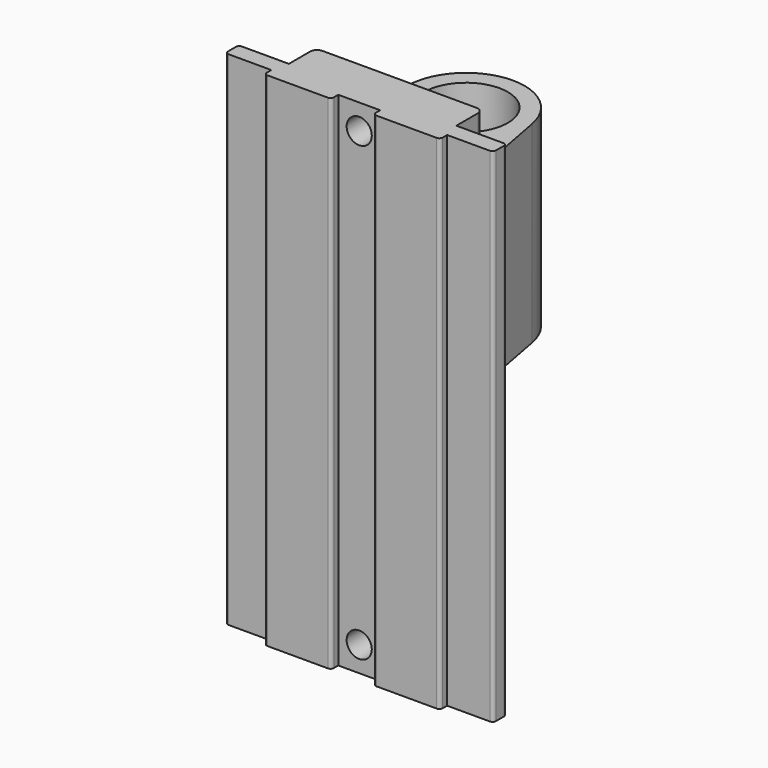
from build123d import *

# Parameters (mm, degrees)
F1_DEPTH = 190.5
F4_DEPTH = 73.025
F6_D     = 9.525
F7_D     = 9.525


with BuildPart() as f1:
    # F0 (on Top) → F1 (new body)
    with BuildSketch(Plane.XY):
        with BuildLine():
            Line((-7.9375, 3.373814), (0, 3.373814))
            Line((0, 3.373814), (0, 9.723814))
            Line((0, 9.723814), (-31.75, 9.723814))
            Line((-31.75, 9.723814), (-49.53, 9.723814))
            ThreePointArc((-49.53, 9.723814), (-50.428026, 9.35184), (-50.8, 8.453814))
            Line((-50.8, 8.453814), (-50.8, 4.643814))
            ThreePointArc((-50.8, 4.643814), (-50.428026, 3.745788), (-49.53, 3.373814))
            Line((-49.53, 3.373814), (-33.3375, 3.373814))
            Line((-33.3375, 3.373814), (-7.9375, 3.373814))
        make_face()
        with BuildLine():
            Line((0, 9.723814), (0, 3.373814))
            Line((0, 3.373814), (7.9375, 3.373814))
            Line((7.9375, 3.373814), (33.3375, 3.373814))
            Line((33.3375, 3.373814), (49.53, 3.373814))
            ThreePointArc((49.53, 3.373814), (50.428026, 3.745788), (50.8, 4.643814))
            Line((50.8, 4.643814), (50.8, 8.453814))
            ThreePointArc((50.8, 8.453814), (50.428026, 9.35184), (49.53, 9.723814))
            Line((49.53, 9.723814), (31.75, 9.723814))
            Line((31.75, 9.723814), (0, 9.723814))
        make_face()
        with BuildLine():
            Line((-31.75, 9.723814), (0, 9.723814))
            Line((0, 9.723814), (0, 22.423814))
            Line((0, 22.423814), (-29.21, 22.423814))
            ThreePointArc((-29.21, 22.423814), (-31.006051, 21.679865), (-31.75, 19.883814))
            Line((-31.75, 19.883814), (-31.75, 9.723814))
        make_face()
        with BuildLine():
            Line((0, 22.423814), (0, 9.723814))
            Line((0, 9.723814), (31.75, 9.723814))
            Line((31.75, 9.723814), (31.75, 19.883814))
            ThreePointArc((31.75, 19.883814), (31.006051, 21.679865), (29.21, 22.423814))
            Line((29.21, 22.423814), (0, 22.423814))
        make_face()
        with BuildLine():
            Line((-7.9375, 1.27), (-7.9375, 3.373814))
            Line((-7.9375, 3.373814), (-33.3375, 3.373814))
            Line((-33.3375, 3.373814), (-33.3375, 1.27))
            ThreePointArc((-33.3375, 1.27), (-32.965526, 0.371974), (-32.0675, 0))
            Line((-32.0675, 0), (-9.2075, 0))
            ThreePointArc((-9.2075, 0), (-8.309474, 0.371974), (-7.9375, 1.27))
        make_face()
        with BuildLine():
            Line((33.3375, 3.373814), (7.9375, 3.373814))
            Line((7.9375, 3.373814), (7.9375, 1.27))
            ThreePointArc((7.9375, 1.27), (8.309474, 0.371974), (9.2075, 0))
            Line((9.2075, 0), (32.0675, 0))
            ThreePointArc((32.0675, 0), (32.965526, 0.371974), (33.3375, 1.27))
            Line((33.3375, 1.27), (33.3375, 3.373814))
        make_face()
    extrude(amount=F1_DEPTH)

    # F3 (on offset) → F4 (join)
    with BuildSketch(Plane.XY.offset(95.25)):
        with BuildLine():
            Line((-21.843277, 58.076449), (-28.575, 22.225))
            Line((-28.575, 22.225), (0, 22.225))
            Line((0, 22.225), (0, 31.75))
            ThreePointArc((0, 31.75), (-17.104171, 39.783525), (-21.843277, 58.076449))
        make_face()
        with BuildLine():
            ThreePointArc((0, 76.2), (-14.191475, 71.079171), (-21.843277, 58.076449))
            ThreePointArc((-21.843277, 58.076449), (-17.104171, 39.783525), (0, 31.75))
            Line((0, 31.75), (0, 38.1))
            ThreePointArc((0, 38.1), (-15.875, 53.975), (0, 69.85))
            Line((0, 69.85), (0, 76.2))
        make_face()
        with BuildLine():
            Line((0, 31.75), (0, 22.225))
            Line((0, 22.225), (28.575, 22.225))
            Line((28.575, 22.225), (21.843277, 58.076449))
            ThreePointArc((21.843277, 58.076449), (17.104171, 39.783525), (0, 31.75))
        make_face()
        with BuildLine():
            ThreePointArc((21.843277, 58.076449), (14.191475, 71.079171), (0, 76.2))
            Line((0, 76.2), (0, 69.85))
            ThreePointArc((0, 69.85), (15.875, 53.975), (0, 38.1))
            Line((0, 38.1), (0, 31.75))
            ThreePointArc((0, 31.75), (17.104171, 39.783525), (21.843277, 58.076449))
        make_face()
    extrude(amount=F4_DEPTH)

    # F6 (through all)
    with Locations(Plane.XZ):
        with Locations((0, 180.975)):
            Hole(F6_D / 2)

    # F7 (through all)
    with Locations(Plane.XZ):
        with Locations((0, 9.525)):
            Hole(F7_D / 2)


solid = f1.part
